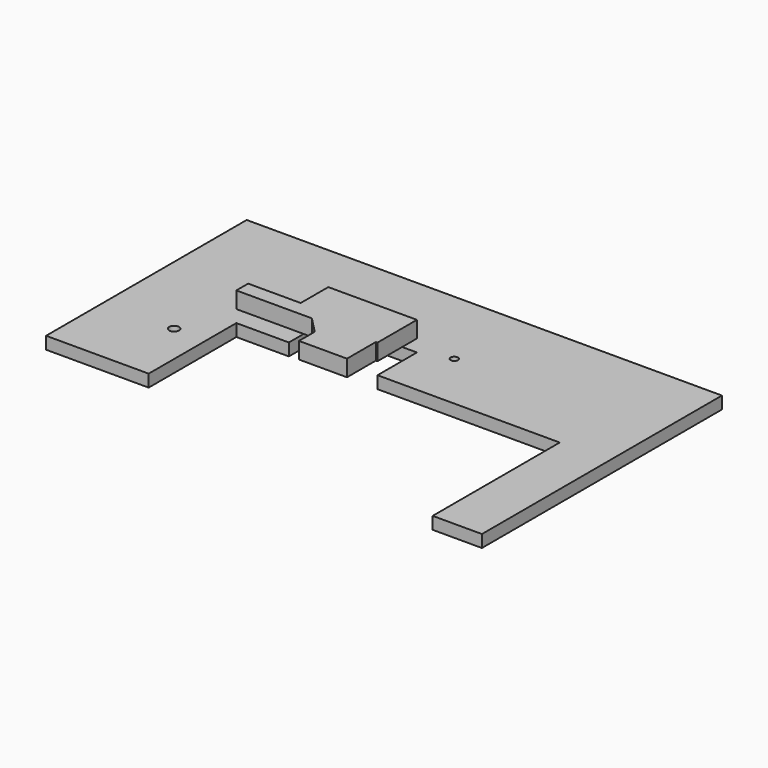
from build123d import *

# Parameters (mm, degrees)
F0_R     = 3.048
F0_R_2   = 2.286
F2_DEPTH = 7.62
F3_W     = 32.512
F3_H     = 9.144
F4_DEPTH = 10.16


with BuildPart() as f2:
    # F0 (on Top) → F2 (new body)
    with BuildSketch(Plane.XY):
        Polygon((15.875, 52.832), (15.875, 22.352), (128.651, 22.352), (128.651, -45.466), (128.651, -75.946), (159.131, -75.946), (159.131, 109.728), (-135.001, 109.728), (-135.001, -45.466), (-71.501, -45.466), (-71.501, 22.352), (-38.989, 22.352), (-38.989, 52.832), align=None)
        with Locations((-91.313, -1.016)):
            Circle(F0_R, mode=Mode.SUBTRACT)
        with Locations((-20.701, 59.944)):
            Circle(F0_R_2, mode=Mode.SUBTRACT)
        with Locations((-24.511, 77.216)):
            Circle(F0_R_2, mode=Mode.SUBTRACT)
        with Locations((34.163, 58.928)):
            Circle(F0_R_2, mode=Mode.SUBTRACT)
    extrude(amount=F2_DEPTH)


with BuildPart() as f4:
    # F3 (on offset) → F4 (new body)
    with BuildSketch(Plane.XY.offset(15.24)):
        with Locations((-55.245, 26.924)):
            Rectangle(F3_W, F3_H)
        Polygon((14.859, 22.352), (-24.765, 22.352), (-14.859, 12.192), (-14.859, 0), (14.859, 0), align=None)
        Polygon((-38.989, 31.496), (-38.989, 22.352), (-24.765, 22.352), (14.859, 22.352), (15.875, 22.352), (15.875, 52.832), (-38.989, 52.832), align=None)
    extrude(amount=F4_DEPTH)


solid = Compound([f2.part, f4.part])
